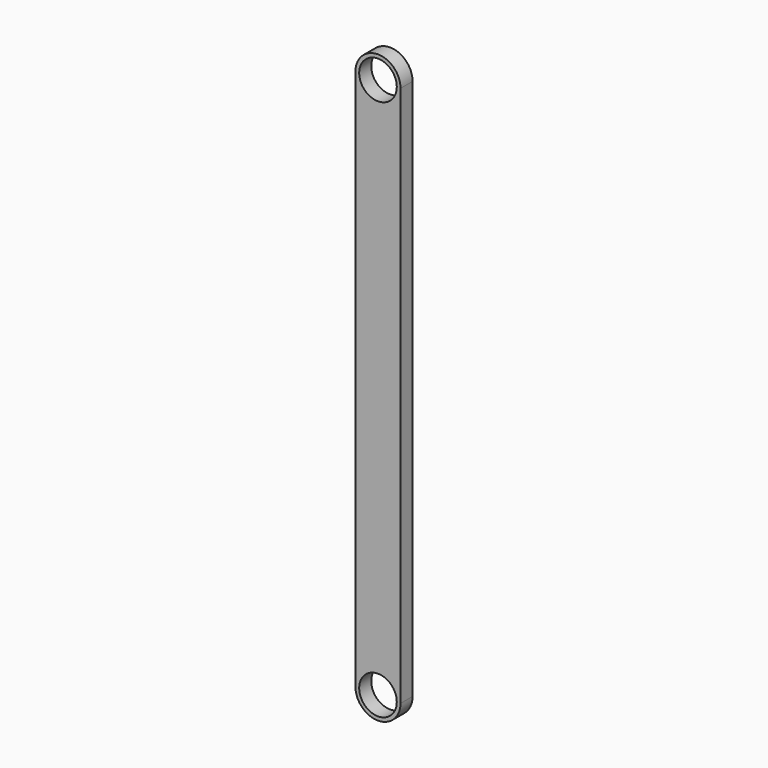
from build123d import *

# Parameters (mm, degrees)
F0_R     = 6.35
F1_DEPTH = 5.08


with BuildPart() as f1:
    # F0 (on Front) → F1 (new body)
    with BuildSketch(Plane.XZ):
        with BuildLine():
            Line((7.62, -20.648163), (7.62, 162.231837))
            ThreePointArc((7.62, 162.231837), (0, 154.611837), (-7.62, 162.231837))
            Line((-7.62, 162.231837), (-7.62, -20.648163))
            ThreePointArc((-7.62, -20.648163), (0, -13.028163), (7.62, -20.648163))
        make_face()
        with BuildLine():
            ThreePointArc((-7.62, -20.648163), (0, -28.268163), (7.62, -20.648163))
            ThreePointArc((7.62, -20.648163), (0, -13.028163), (-7.62, -20.648163))
        make_face()
        with Locations((0, -20.648163)):
            Circle(F0_R, mode=Mode.SUBTRACT)
        with BuildLine():
            ThreePointArc((-7.62, 162.231837), (0, 154.611837), (7.62, 162.231837))
            ThreePointArc((7.62, 162.231837), (0, 169.851837), (-7.62, 162.231837))
        make_face()
        with Locations((0, 162.231837)):
            Circle(F0_R, mode=Mode.SUBTRACT)
    extrude(amount=F1_DEPTH)


solid = f1.part
